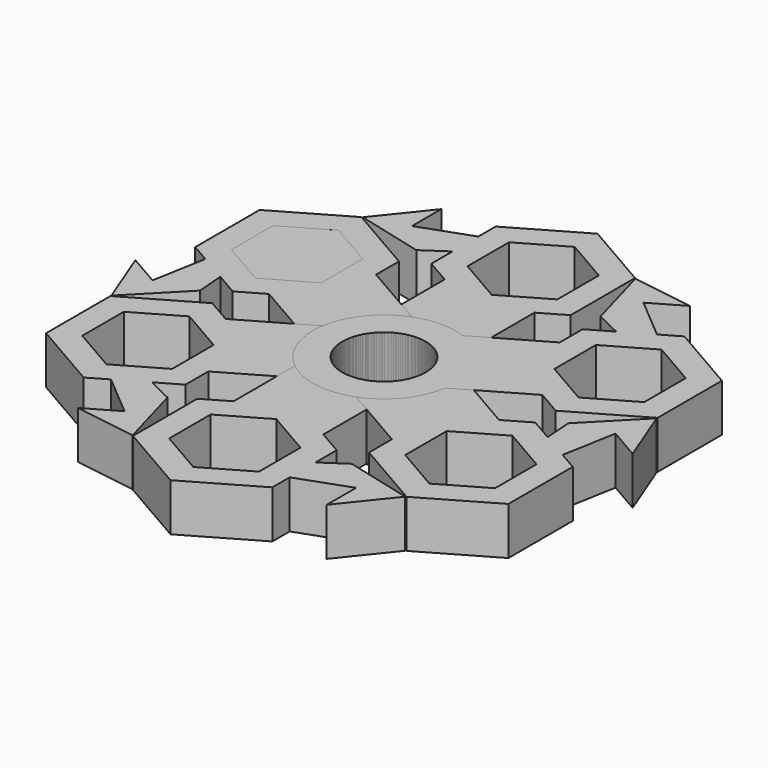
from build123d import *

# Parameters (mm, degrees)
F1_DEPTH = 25.4
F3_COUNT = 6


with BuildPart() as f1:
    # F0 (on Top) → F1 (new body)
    with BuildSketch(Plane.XY):
        Polygon((23.9440295845, 85.598882884), (23.9440295845, 70.3475958831), (37.1520315677, 77.9732393835), (37.1520315677, 120.8727102367), (0, 142.3224456633), (-37.1520315677, 120.8727102367), (-37.1520315677, 109.3285158277), (-37.1520315677, 92.1116918325), (-37.1520315677, 77.9732393835), (-23.9440295845, 70.3475958831), (-23.9440295845, 85.598882884), (-23.9440295845, 113.2470667362), (0, 127.0711586623), (23.9440295845, 113.2470667362), align=None)
        Polygon((-23.9440295845, 70.3475958831), (0, 56.523503957), (0, 71.7747909579), (-23.9440295845, 85.598882884), align=None)
        Polygon((0, 71.7747909579), (0, 56.523503957), (23.9440295845, 70.3475958831), (23.9440295845, 85.598882884), align=None)
        with BuildLine():
            Line((0, 56.523503957), (0, 37.938488002))
            ThreePointArc((0, 37.938488002), (12.7057415537, 35.7476293402), (23.9440295845, 29.4280872489))
            Line((23.9440295845, 29.4280872489), (23.9440295845, 70.3475958831))
            Line((23.9440295845, 70.3475958831), (0, 56.523503957))
        make_face()
        with BuildLine():
            ThreePointArc((-23.9440295845, 29.4280872489), (-12.7057415537, 35.7476293402), (0, 37.938488002))
            Line((0, 37.938488002), (0, 56.523503957))
            Line((0, 56.523503957), (-23.9440295845, 70.3475958831))
            Line((-23.9440295845, 70.3475958831), (-23.9440295845, 29.4280872489))
        make_face()
        with BuildLine():
            ThreePointArc((23.9440295845, 29.4280872489), (12.7057415537, 35.7476293402), (0, 37.938488002))
            ThreePointArc((0, 37.938488002), (-12.7057415537, 35.7476293402), (-23.9440295845, 29.4280872489))
            ThreePointArc((-23.9440295845, 29.4280872489), (-16.2930751052, -34.2617071305), (37.938488002, 0))
            ThreePointArc((37.938488002, 0), (34.2617071305, 16.2930751052), (23.9440295845, 29.4280872489))
        make_face()
        with BuildLine():
            ThreePointArc((0, 22.2575261914), (15.7384477024, 15.7384477024), (22.2575261914, 0))
            ThreePointArc((22.2575261914, 0), (-15.7384477024, -15.7384477024), (0, 22.2575261914))
        make_face(mode=Mode.SUBTRACT)
        Polygon((-49.684740603, 83.6323350668), (-37.1520315677, 92.1116918325), (-37.1520315677, 109.3285158277), (-64.6552145481, 99.4229748101), (-64.6552145481, 118.9915090799), (-85.5922028422, 92.8476750851), align=None)
    extrude(amount=F1_DEPTH)


with BuildPart() as f1b:
    # F0 (on Top) → F1, piece 2 (new body)
    with BuildSketch(Plane.XY):
        Polygon((-110.0468514899, 35.8873954789), (-86.1028219054, 22.0633035528), (-62.1587923208, 35.8873954789), (-62.1587923208, 63.5355793312), (-86.1028219054, 77.3596712573), (-110.0468514899, 63.5355793312), align=None)
    extrude(amount=F1_DEPTH)


with BuildPart() as f3_1:
    # F3: instance of F1
    add(f1.part.rotate(Axis((0, 0, 29.9599058926), (0, 0, 1)), 1 * 360 / F3_COUNT))


with BuildPart() as f3_2:
    # F3: instance of F1
    add(f1.part.rotate(Axis((0, 0, 29.9599058926), (0, 0, 1)), 2 * 360 / F3_COUNT))


with BuildPart() as f3_3:
    # F3: instance of F1
    add(f1.part.rotate(Axis((0, 0, 29.9599058926), (0, 0, 1)), 3 * 360 / F3_COUNT))


with BuildPart() as f3_4:
    # F3: instance of F1
    add(f1.part.rotate(Axis((0, 0, 29.9599058926), (0, 0, 1)), 4 * 360 / F3_COUNT))


with BuildPart() as f3_5:
    # F3: instance of F1
    add(f1.part.rotate(Axis((0, 0, 29.9599058926), (0, 0, 1)), 5 * 360 / F3_COUNT))


solid = Compound([f1.part, f1b.part, f3_1.part, f3_2.part, f3_3.part, f3_4.part, f3_5.part])
